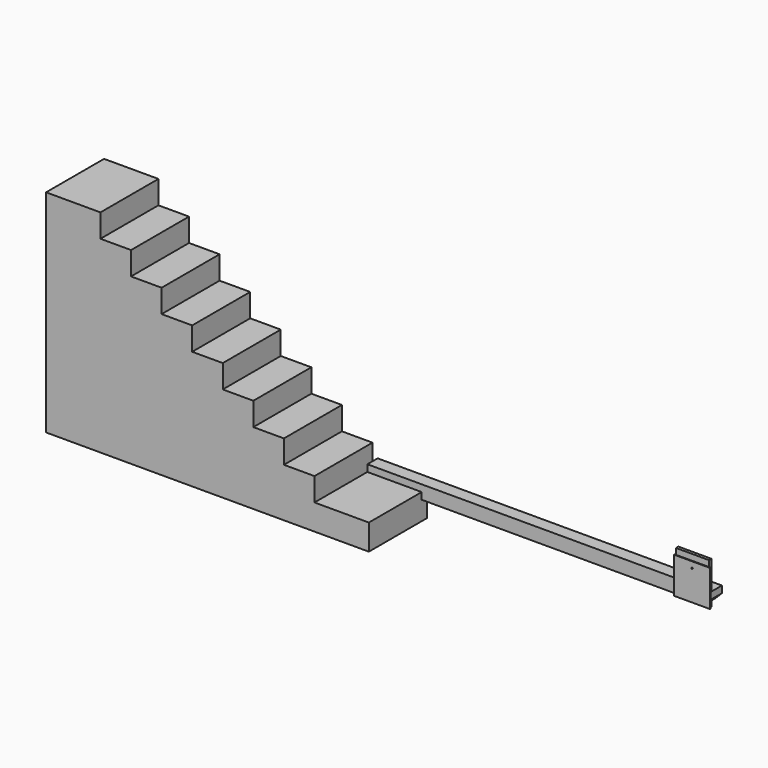
from build123d import *

# Parameters (mm, degrees)
F1_DEPTH = 609.6
F2_W     = 107.95
F2_H     = 114.3
F3_DEPTH = 2895.6
F5_DEPTH = 107.95
F6_W     = 279.4
F6_H     = 241.3
F6_R     = 6.35
F7_DEPTH = 25.4
F8_W     = 12.7
F8_H     = 304.8
F8_W_2   = 279.4
F8_R     = 6.35
F9_DEPTH = 6.35


with BuildPart() as f1:
    # F0 (on Front) → F1 (new body)
    with BuildSketch(Plane.XZ):
        Polygon((457.2, 0), (0, 0), (0, 195.2752), (-257.175, 195.2752), (-257.175, 390.5504), (-514.35, 390.5504), (-514.35, 585.8256), (-771.525, 585.8256), (-771.525, 781.1008), (-1028.7, 781.1008), (-1028.7, 976.376), (-1285.875, 976.376), (-1285.875, 1171.6512), (-1543.05, 1171.6512), (-1543.05, 1366.9264), (-1800.225, 1366.9264), (-1800.225, 1562.2016), (-2257.425, 1562.2016), (-2257.425, -215.7984), (457.2, -215.7984), align=None)
    extrude(amount=F1_DEPTH)


with BuildPart() as f3:
    # F2 (on Right) → F3 (new body)
    with BuildSketch(Plane.YZ):
        Rectangle(F2_W, F2_H)
    extrude(amount=F3_DEPTH)

    # F4 (on face) → F5 (cut, through all)
    with BuildSketch(Plane.XZ.offset(53.975)):
        Polygon((2838.45, -57.15), (2895.6, -57.15), (2895.6, 0), align=None)
    extrude(amount=-F5_DEPTH, mode=Mode.SUBTRACT)


with BuildPart() as f7:
    # F6 (on face) → F7 (new body)
    with BuildSketch(Plane.XZ.offset(53.975)):
        with Locations((2755.9, 177.8)):
            Rectangle(F6_W, F6_H)
        with Locations((2755.9, 196.85)):
            Circle(F6_R, mode=Mode.SUBTRACT)
        Polygon((2895.6, 0), (2838.45, -57.15), (2895.6, -57.15), align=None)
        Polygon((2616.2, -57.15), (2838.45, -57.15), (2895.6, 0), (2895.6, 57.15), (2616.2, 57.15), align=None)
    extrude(amount=F7_DEPTH)


with BuildPart() as f9:
    # F8 (on face) → F9 (new body)
    with BuildSketch(Plane.XZ.offset(79.375)):
        with Locations((2609.85, 95.25)):
            Rectangle(F8_W, F8_H)
        with Locations((2901.95, 95.25)):
            Rectangle(F8_W, F8_H)
        with Locations((2755.9, 95.25)):
            Rectangle(F8_W_2, F8_H)
        with Locations((2755.9, 196.85)):
            Circle(F8_R, mode=Mode.SUBTRACT)
    extrude(amount=F9_DEPTH)


solid = Compound([f1.part, f3.part, f7.part, f9.part])
